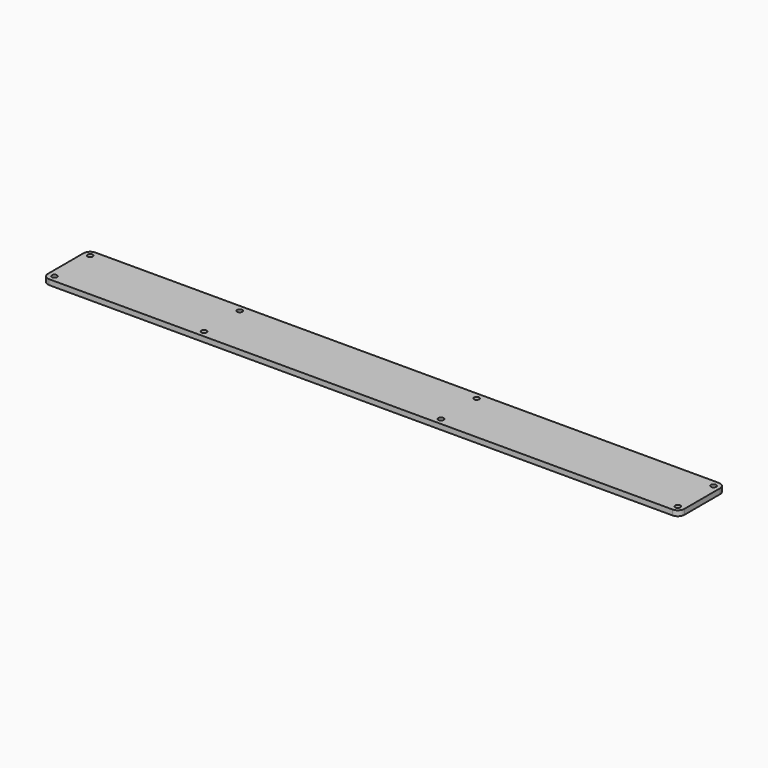
from build123d import *

# Parameters (mm, degrees)
SKETCH001_R = 1
PAD_DEPTH   = 2


with BuildPart() as part:
    # Sketch001 → Pad (new body)
    with BuildSketch(Plane.XY):
        with BuildLine():
            Line((-121.25, -8.5), (-121.25, 8.5))
            ThreePointArc((-118.75, 11), (-120.517767, 10.267767), (-121.25, 8.5))
            Line((-118.75, 11), (118.75, 11))
            ThreePointArc((121.25, 8.5), (120.517767, 10.267767), (118.75, 11))
            Line((121.25, 8.5), (121.25, -8.5))
            ThreePointArc((118.75, -11), (120.517767, -10.267767), (121.25, -8.5))
            Line((118.75, -11), (-118.75, -11))
            ThreePointArc((-121.25, -8.5), (-120.517767, -10.267767), (-118.75, -11))
        make_face()
        with Locations((-118.75, 8.5)):
            Circle(SKETCH001_R, mode=Mode.SUBTRACT)
        with Locations((-61.75, 8.5)):
            Circle(SKETCH001_R, mode=Mode.SUBTRACT)
        with Locations((28.5, 8.5)):
            Circle(SKETCH001_R, mode=Mode.SUBTRACT)
        with Locations((118.75, 8.5)):
            Circle(SKETCH001_R, mode=Mode.SUBTRACT)
        with Locations((-118.75, -8.5)):
            Circle(SKETCH001_R, mode=Mode.SUBTRACT)
        with Locations((-61.75, -8.5)):
            Circle(SKETCH001_R, mode=Mode.SUBTRACT)
        with Locations((28.5, -8.5)):
            Circle(SKETCH001_R, mode=Mode.SUBTRACT)
        with Locations((118.75, -8.5)):
            Circle(SKETCH001_R, mode=Mode.SUBTRACT)
    extrude(amount=PAD_DEPTH)


solid = part.part
